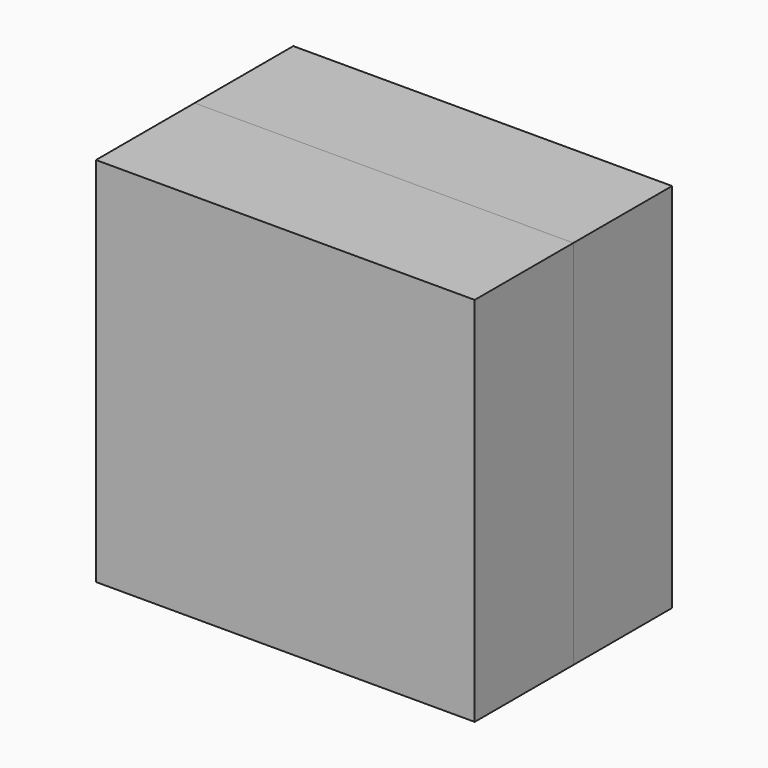
from build123d import *

# Parameters (mm, degrees)
F0_W      = 77.999383
F0_H      = 76.508811
F1_DEPTH  = 25.4
F1_FACE_W = 77.999384
F1_FACE_H = 76.50881
F2_DEPTH  = 25.4


with BuildPart() as f1:
    # F0 (on Front) → F1 (new body)
    with BuildSketch(Plane.XZ):
        with Locations((-130.903303, -13.032203)):
            Rectangle(F0_W, F0_H)
    extrude(amount=F1_DEPTH)


with BuildPart() as f2:
    # F1_face (on face) → F2 (new body)
    with BuildSketch(Plane(origin=(-130.903304, -25.4, -13.032203), x_dir=(1, 0, 0), z_dir=(0, -1, 0))):
        Rectangle(F1_FACE_W, F1_FACE_H)
    extrude(amount=F2_DEPTH)


solid = Compound([f1.part, f2.part])
